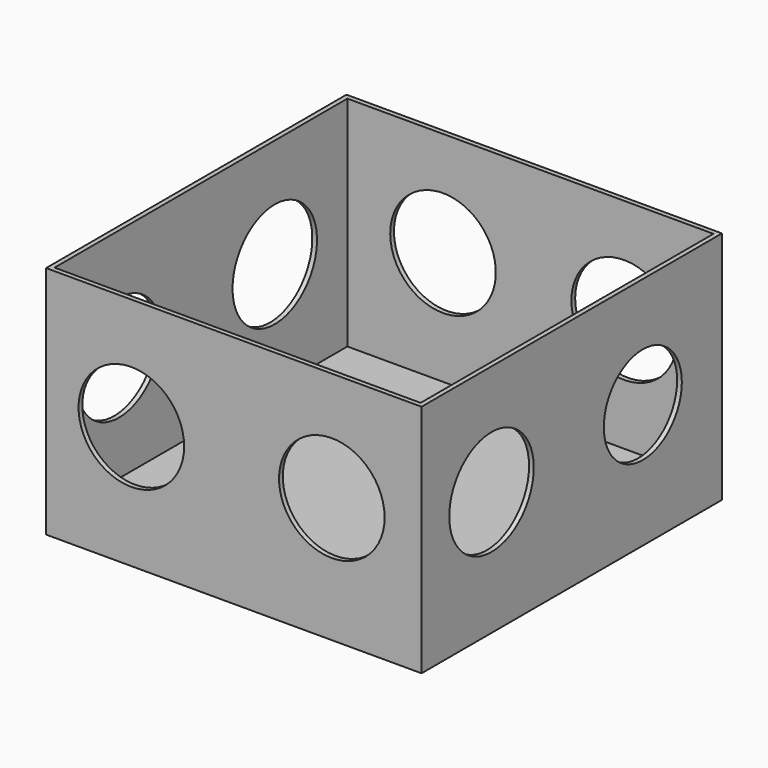
from build123d import *

# Parameters (mm, degrees)
F0_W      = 99.06
F0_H      = 99.06
F1_DEPTH  = 4.445
F0_W_2    = 101.6
F0_H_2    = 101.6
F2_DEPTH  = 63.5
F5_R      = 14.2875
F7_DEPTH  = 25.4
F3_R      = 14.2875
F3_R_2    = 13.193858
F8_DEPTH  = 25.4
F4_R      = 14.2875
F4_R_2    = 14.425909
F9_DEPTH  = 25.4
F6_R      = 14.2875
F10_DEPTH = 25.4
F11_R     = 14.2875
F12_DEPTH = 25.4


with BuildPart() as f1:
    # F0 (on Top) → F1 (new body)
    with BuildSketch(Plane.XY):
        Rectangle(F0_W, F0_H)
    extrude(amount=F1_DEPTH)

    # F0 (on Top) → F2 (join)
    with BuildSketch(Plane.XY):
        Rectangle(F0_W_2, F0_H_2)
        Rectangle(F0_W, F0_H, mode=Mode.SUBTRACT)
    extrude(amount=F2_DEPTH)

    # F5 (on face) → F7 (cut)
    with BuildSketch(Plane.XZ.offset(50.8)):
        with Locations((-27.728472, 33.152512)):
            Circle(F5_R)
        with Locations((26.523072, 33.849479)):
            Circle(F5_R)
    extrude(amount=-F7_DEPTH, mode=Mode.SUBTRACT)

    # F3 (on face) → F8 (cut)
    with BuildSketch(Plane.YZ.offset(50.8)):
        with Locations((-27.133925, 33.572733)):
            Circle(F3_R)
        with Locations((24.041634, 33.572733)):
            Circle(F3_R_2)
    extrude(amount=-F8_DEPTH, mode=Mode.SUBTRACT)

    # F4 (on face) → F9 (cut)
    with BuildSketch(Plane(origin=(0, 50.8, 0), x_dir=(-1, 0, 0), z_dir=(0, 1, 0))):
        with Locations((-27.319755, 33.915631)):
            Circle(F4_R)
        with Locations((28.376452, 33.915631)):
            Circle(F4_R_2)
    extrude(amount=F9_DEPTH, mode=Mode.SUBTRACT)

    # F6 (on face) → F10 (cut)
    with BuildSketch(Plane(origin=(-50.8, 0, 0), x_dir=(0, -1, 0), z_dir=(-1, 0, 0))):
        with Locations((-24.966941, 34.00825)):
            Circle(F6_R)
        with Locations((27.751417, 33.17856)):
            Circle(F6_R)
    extrude(amount=-F10_DEPTH, mode=Mode.SUBTRACT)

    # F11 (on face) → F12 (cut)
    with BuildSketch(Plane(origin=(0, 50.8, 0), x_dir=(-1, 0, 0), z_dir=(0, 1, 0))):
        with Locations((-25.37245, 35.114542)):
            Circle(F11_R)
        with Locations((23.656343, 35.114542)):
            Circle(F11_R)
    extrude(amount=-F12_DEPTH, mode=Mode.SUBTRACT)


solid = f1.part
